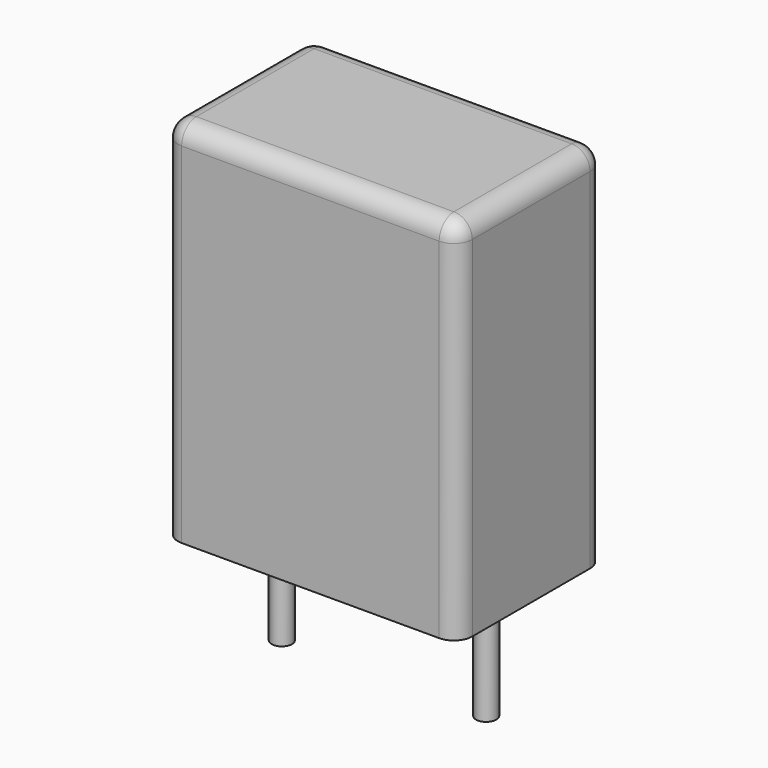
from build123d import *

# Parameters (mm, degrees)
SKETCH_W     = 7.2
SKETCH_H     = 4.5
PAD_DEPTH    = 9
FILLET_R     = 0.45
SKETCH001_R  = 0.25
PAD001_DEPTH = 3.2


with BuildPart() as fillet_body:
    # Sketch → Pad (new body)
    with BuildSketch(Plane.XY.offset(0.1)):
        with Locations((2.5, 0)):
            Rectangle(SKETCH_W, SKETCH_H)
    extrude(amount=PAD_DEPTH)

    # Fillet
    fillet_edges = [fillet_body.edges().sort_by_distance(p)[0] for p in [
        (-1.1, 0, 9.1),
        (-1.1, -2.25, 4.6),
        (2.5, -2.25, 9.1),
        (6.1, -2.25, 4.6),
        (6.1, 0, 9.1),
        (6.1, 2.25, 4.6),
        (2.5, 2.25, 9.1),
        (-1.1, 2.25, 4.6),
    ]]
    fillet(fillet_edges, radius=FILLET_R)


with BuildPart() as pad001:
    # Sketch001 → Pad001 (new body)
    with BuildSketch(Plane.XY.offset(0.5)):
        Circle(SKETCH001_R)
        with Locations((5, 0)):
            Circle(SKETCH001_R)
    extrude(amount=-PAD001_DEPTH)


solid = Compound([fillet_body.part, pad001.part])
